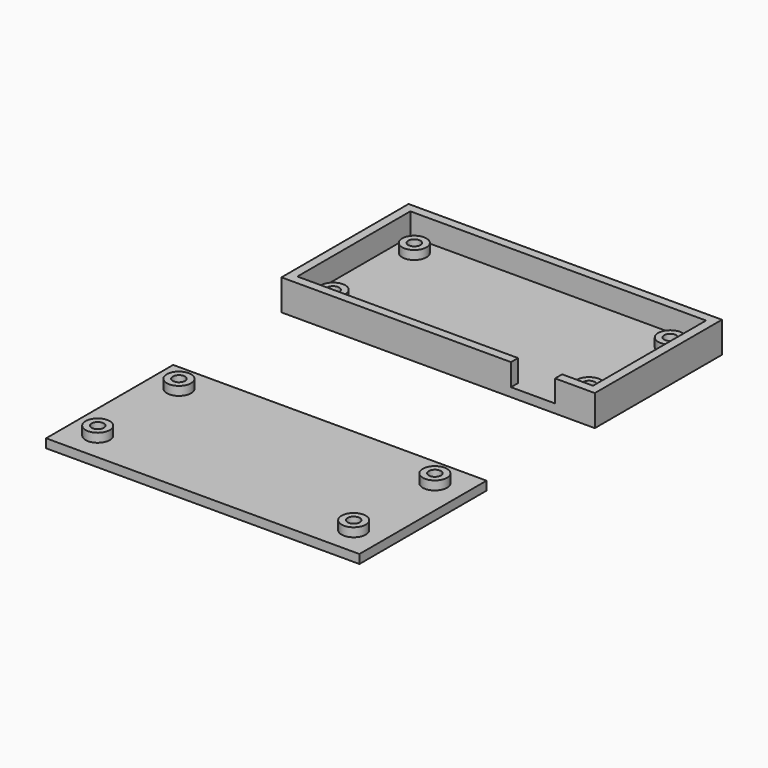
from build123d import *

# Parameters (mm, degrees)
F0_R     = 2.75
F0_R_2   = 1.375
F0_W     = 10
F0_H     = 2
F1_DEPTH = 2
F2_DEPTH = 4
F3_DEPTH = 7
F4_SIZE  = 1.75
F5_W     = 71
F5_H     = 36
F5_R     = 2.75
F5_R_2   = 1.375
F6_DEPTH = 2
F7_DEPTH = 4


with BuildPart() as f1:
    # F0 (on Top) → F1 (new body)
    with BuildSketch(Plane.XY):
        Polygon((33.5, -16), (26.5, -16), (26.5, -18), (35.5, -18), (35.5, 18), (-35.5, 18), (-35.5, -18), (16.5, -18), (16.5, -16), (-33.5, -16), (-33.5, 16), (33.5, 16), align=None)
        Polygon((-32.5, 15), (32.5, 15), (32.5, -15), (26.5, -15), (26.5, -16), (33.5, -16), (33.5, 16), (-33.5, 16), (-33.5, -16), (16.5, -16), (16.5, -15), (-32.5, -15), align=None)
        Polygon((32.5, -15), (32.5, 15), (-32.5, 15), (-32.5, -15), (16.5, -15), (21.5, -15), (26.5, -15), align=None)
        with Locations((-29, -11.5)):
            Circle(F0_R, mode=Mode.SUBTRACT)
        with Locations((29, -11.5)):
            Circle(F0_R, mode=Mode.SUBTRACT)
        with Locations((-29, 11.5)):
            Circle(F0_R, mode=Mode.SUBTRACT)
        with Locations((29, 11.5)):
            Circle(F0_R, mode=Mode.SUBTRACT)
        with Locations((-29, 11.5)):
            Circle(F0_R)
        with Locations((-29, 11.5)):
            Circle(F0_R_2, mode=Mode.SUBTRACT)
        with Locations((-29, -11.5)):
            Circle(F0_R)
        with Locations((-29, -11.5)):
            Circle(F0_R_2, mode=Mode.SUBTRACT)
        with Locations((29, 11.5)):
            Circle(F0_R)
        with Locations((29, 11.5)):
            Circle(F0_R_2, mode=Mode.SUBTRACT)
        with Locations((29, -11.5)):
            Circle(F0_R)
        with Locations((29, -11.5)):
            Circle(F0_R_2, mode=Mode.SUBTRACT)
        with Locations((21.5, -17)):
            Rectangle(F0_W, F0_H)
        Polygon((26.5, -16), (26.5, -15), (21.5, -15), (16.5, -15), (16.5, -16), align=None)
    extrude(amount=F1_DEPTH)

    # F0 (on Top) → F2 (join)
    with BuildSketch(Plane.XY):
        with Locations((-29, -11.5)):
            Circle(F0_R)
        with Locations((-29, -11.5)):
            Circle(F0_R_2, mode=Mode.SUBTRACT)
        with Locations((29, -11.5)):
            Circle(F0_R)
        with Locations((29, -11.5)):
            Circle(F0_R_2, mode=Mode.SUBTRACT)
        with Locations((29, 11.5)):
            Circle(F0_R)
        with Locations((29, 11.5)):
            Circle(F0_R_2, mode=Mode.SUBTRACT)
        with Locations((-29, 11.5)):
            Circle(F0_R)
        with Locations((-29, 11.5)):
            Circle(F0_R_2, mode=Mode.SUBTRACT)
    extrude(amount=F2_DEPTH)

    # F0 (on Top) → F3 (join)
    with BuildSketch(Plane.XY):
        Polygon((33.5, -16), (26.5, -16), (26.5, -18), (35.5, -18), (35.5, 18), (-35.5, 18), (-35.5, -18), (16.5, -18), (16.5, -16), (-33.5, -16), (-33.5, 16), (33.5, 16), align=None)
    extrude(amount=F3_DEPTH)

    # F4
    f4_edges = [f1.edges().sort_by_distance(p)[0] for p in [
        (27.625, -11.5, 0),
        (27.625, 11.5, 0),
        (-30.375, 11.5, 0),
        (-30.375, -11.5, 0),
    ]]
    chamfer(f4_edges, length=F4_SIZE)


with BuildPart() as f6:
    # F5 (on Top) → F6 (new body)
    with BuildSketch(Plane.XY):
        with Locations((0, -66.6717812419)):
            Rectangle(F5_W, F5_H)
        with Locations((-29, -78.1717812419)):
            Circle(F5_R, mode=Mode.SUBTRACT)
        with Locations((29, -78.1717812419)):
            Circle(F5_R, mode=Mode.SUBTRACT)
        with Locations((-29, -55.1717812419)):
            Circle(F5_R, mode=Mode.SUBTRACT)
        with Locations((29, -55.1717812419)):
            Circle(F5_R, mode=Mode.SUBTRACT)
        with Locations((-29, -55.1717812419)):
            Circle(F5_R)
        with Locations((-29, -55.1717812419)):
            Circle(F5_R_2, mode=Mode.SUBTRACT)
        with Locations((-29, -78.1717812419)):
            Circle(F5_R)
        with Locations((-29, -78.1717812419)):
            Circle(F5_R_2, mode=Mode.SUBTRACT)
        with Locations((29, -78.1717812419)):
            Circle(F5_R)
        with Locations((29, -78.1717812419)):
            Circle(F5_R_2, mode=Mode.SUBTRACT)
        with Locations((29, -55.1717812419)):
            Circle(F5_R)
        with Locations((29, -55.1717812419)):
            Circle(F5_R_2, mode=Mode.SUBTRACT)
        with Locations((-29, -55.1717812419)):
            Circle(F5_R_2)
        with Locations((-29, -78.1717812419)):
            Circle(F5_R_2)
        with Locations((29, -78.1717812419)):
            Circle(F5_R_2)
        with Locations((29, -55.1717812419)):
            Circle(F5_R_2)
    extrude(amount=F6_DEPTH)

    # F5 (on Top) → F7 (join)
    with BuildSketch(Plane.XY):
        with Locations((-29, -78.1717812419)):
            Circle(F5_R)
        with Locations((-29, -78.1717812419)):
            Circle(F5_R_2, mode=Mode.SUBTRACT)
        with Locations((-29, -55.1717812419)):
            Circle(F5_R)
        with Locations((-29, -55.1717812419)):
            Circle(F5_R_2, mode=Mode.SUBTRACT)
        with Locations((29, -78.1717812419)):
            Circle(F5_R)
        with Locations((29, -78.1717812419)):
            Circle(F5_R_2, mode=Mode.SUBTRACT)
        with Locations((29, -55.1717812419)):
            Circle(F5_R)
        with Locations((29, -55.1717812419)):
            Circle(F5_R_2, mode=Mode.SUBTRACT)
    extrude(amount=F7_DEPTH)


solid = Compound([f1.part, f6.part])
